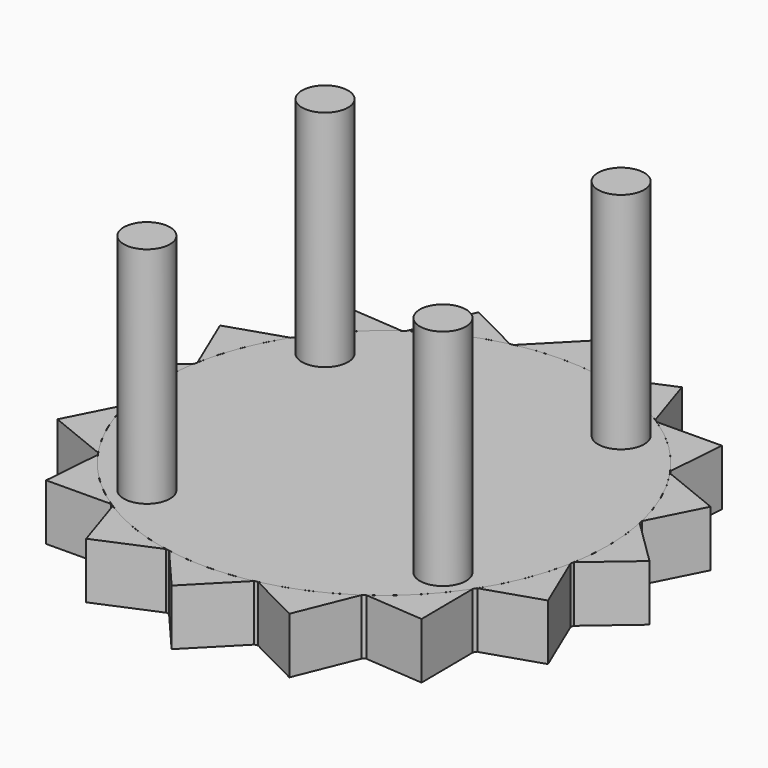
from build123d import *

# Parameters (mm, degrees)
F0_R     = 101.6
F1_DEPTH = 12.7
F2_R     = 10.469642
F3_DEPTH = 101.6
F4_COUNT = 4
F6_DEPTH = 25.4
F7_COUNT = 16


with BuildPart() as f1:
    # F0 (on Top) → F1 (new body, symmetric)
    with BuildSketch(Plane.XY):
        Circle(F0_R)
    extrude(amount=F1_DEPTH, both=True)


with BuildPart() as f3:
    # F2 (on face) → F3 (new body)
    with BuildSketch(Plane.XY.offset(12.7)):
        with Locations((-68.750642, 52.5227)):
            Circle(F2_R)
    extrude(amount=F3_DEPTH)


with BuildPart() as f4_1:
    # F4: instance of F3
    add(f3.part.rotate(Axis((0, 0, 12.7), (0, 0, 1)), 1 * 360 / F4_COUNT))


with BuildPart() as f4_2:
    # F4: instance of F3
    add(f3.part.rotate(Axis((0, 0, 12.7), (0, 0, 1)), 2 * 360 / F4_COUNT))


with BuildPart() as f4_3:
    # F4: instance of F3
    add(f3.part.rotate(Axis((0, 0, 12.7), (0, 0, 1)), 3 * 360 / F4_COUNT))


with BuildPart() as f6:
    # F5 (on face) → F6 (new body, through all)
    with BuildSketch(Plane.XY.offset(12.7)):
        with BuildLine():
            Line((0, 120.402336), (-20.55954, 99.498067))
            ThreePointArc((-20.55954, 99.498067), (-1.619913, 101.587085), (17.376691, 100.103))
            Line((17.376691, 100.103), (0, 120.402336))
        make_face()
    extrude(amount=-F6_DEPTH)


with BuildPart() as f7_1:
    # F7: instance of F6
    add(f6.part.rotate(Axis((0, 0, 12.7), (0, 0, 1)), 1 * 360 / F7_COUNT))


with BuildPart() as f7_2:
    # F7: instance of F6
    add(f6.part.rotate(Axis((0, 0, 12.7), (0, 0, 1)), 2 * 360 / F7_COUNT))


with BuildPart() as f7_3:
    # F7: instance of F6
    add(f6.part.rotate(Axis((0, 0, 12.7), (0, 0, 1)), 3 * 360 / F7_COUNT))


with BuildPart() as f7_4:
    # F7: instance of F6
    add(f6.part.rotate(Axis((0, 0, 12.7), (0, 0, 1)), 4 * 360 / F7_COUNT))


with BuildPart() as f7_5:
    # F7: instance of F6
    add(f6.part.rotate(Axis((0, 0, 12.7), (0, 0, 1)), 5 * 360 / F7_COUNT))


with BuildPart() as f7_6:
    # F7: instance of F6
    add(f6.part.rotate(Axis((0, 0, 12.7), (0, 0, 1)), 6 * 360 / F7_COUNT))


with BuildPart() as f7_7:
    # F7: instance of F6
    add(f6.part.rotate(Axis((0, 0, 12.7), (0, 0, 1)), 7 * 360 / F7_COUNT))


with BuildPart() as f7_8:
    # F7: instance of F6
    add(f6.part.rotate(Axis((0, 0, 12.7), (0, 0, 1)), 8 * 360 / F7_COUNT))


with BuildPart() as f7_9:
    # F7: instance of F6
    add(f6.part.rotate(Axis((0, 0, 12.7), (0, 0, 1)), 9 * 360 / F7_COUNT))


with BuildPart() as f7_10:
    # F7: instance of F6
    add(f6.part.rotate(Axis((0, 0, 12.7), (0, 0, 1)), 10 * 360 / F7_COUNT))


with BuildPart() as f7_11:
    # F7: instance of F6
    add(f6.part.rotate(Axis((0, 0, 12.7), (0, 0, 1)), 11 * 360 / F7_COUNT))


with BuildPart() as f7_12:
    # F7: instance of F6
    add(f6.part.rotate(Axis((0, 0, 12.7), (0, 0, 1)), 12 * 360 / F7_COUNT))


with BuildPart() as f7_13:
    # F7: instance of F6
    add(f6.part.rotate(Axis((0, 0, 12.7), (0, 0, 1)), 13 * 360 / F7_COUNT))


with BuildPart() as f7_14:
    # F7: instance of F6
    add(f6.part.rotate(Axis((0, 0, 12.7), (0, 0, 1)), 14 * 360 / F7_COUNT))


with BuildPart() as f7_15:
    # F7: instance of F6
    add(f6.part.rotate(Axis((0, 0, 12.7), (0, 0, 1)), 15 * 360 / F7_COUNT))


solid = Compound([f1.part, f3.part, f4_1.part, f4_2.part, f4_3.part, f6.part, f7_1.part, f7_2.part, f7_3.part, f7_4.part, f7_5.part, f7_6.part, f7_7.part, f7_8.part, f7_9.part, f7_10.part, f7_11.part, f7_12.part, f7_13.part, f7_14.part, f7_15.part])
